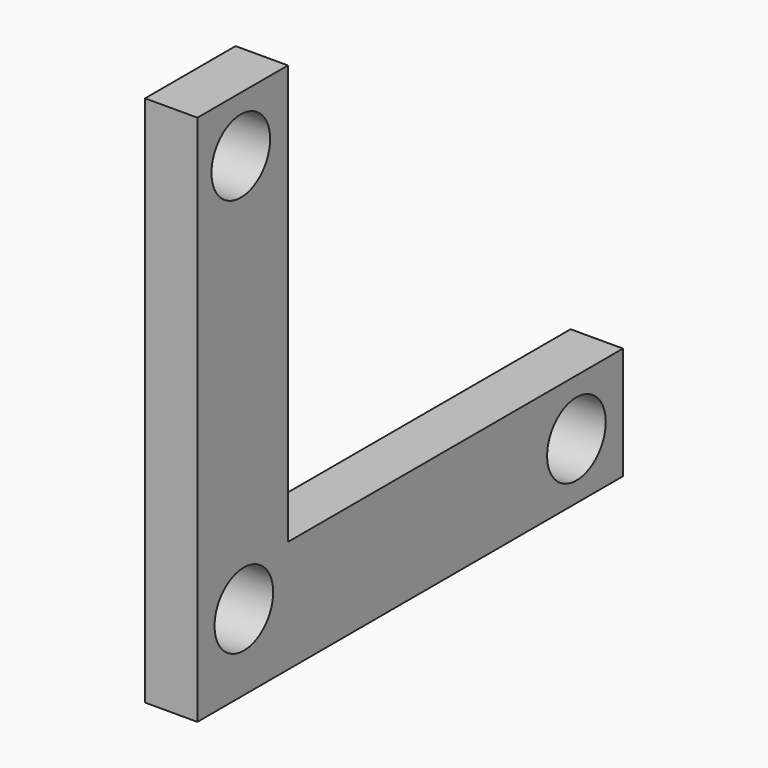
from build123d import *

# Parameters (mm, degrees)
F0_W     = 10.805753
F0_H     = 40.061406
F0_H_2   = 10.738594
F0_W_2   = 39.994247
F1_DEPTH = 5
F2_R     = 3.5
F3_DEPTH = 25.4


with BuildPart() as f1:
    # F0 (on Right) → F1 (new body)
    with BuildSketch(Plane.YZ):
        with Locations((-24.688806, 4.710617)):
            Rectangle(F0_W, F0_H)
        with Locations((-24.688806, -20.689383)):
            Rectangle(F0_W, F0_H_2)
        with Locations((0.711193, -20.689383)):
            Rectangle(F0_W_2, F0_H_2)
    extrude(amount=F1_DEPTH)

    # F2 (on face) → F3 (cut)
    with BuildSketch(Plane.YZ.offset(5)):
        with Locations((-24.911897, 19.416444)):
            Circle(F2_R)
        with Locations((15.155843, -20.654626)):
            Circle(F2_R)
        with Locations((-24.54664, -18.820086)):
            Circle(F2_R)
    extrude(amount=-F3_DEPTH, mode=Mode.SUBTRACT)


solid = f1.part
